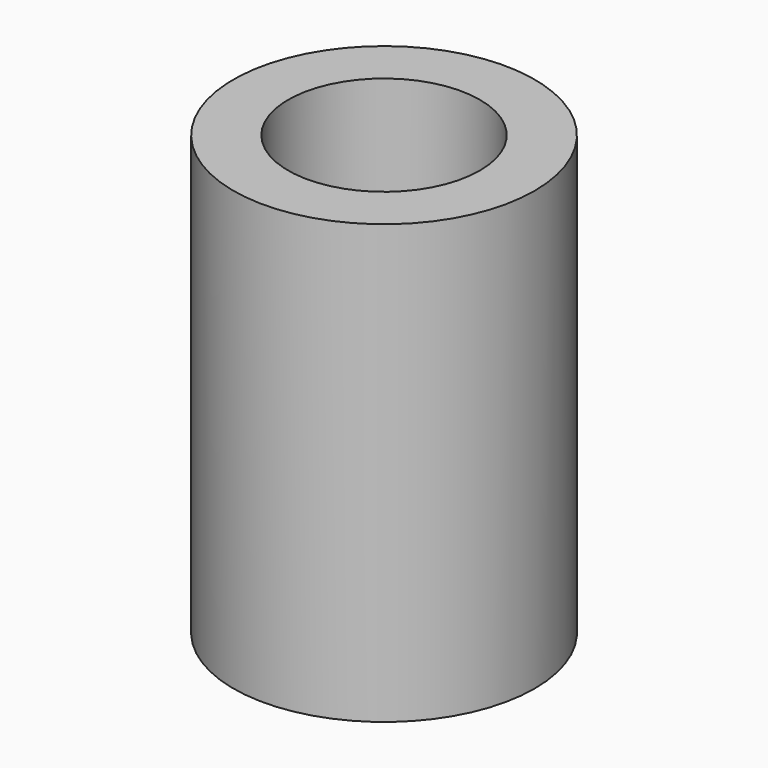
from build123d import *

# Parameters (mm, degrees)
SKETCH_R       = 1.75
PAD_DEPTH      = 8
THICKNESS001_T = 1
SKETCH013_W    = 12.495425
SKETCH013_H    = 4.952306
POCKET_DEPTH   = 6.751


with BuildPart() as part:
    # Sketch → Pad (new body)
    with BuildSketch(Plane.XY):
        Circle(SKETCH_R)
    extrude(amount=PAD_DEPTH)

    # Thickness001
    thickness001_openings = [part.faces().sort_by_distance(p)[0] for p in [
        (0, 0, 8),
    ]]
    offset(amount=THICKNESS001_T, openings=thickness001_openings, kind=Kind.INTERSECTION)

    # Sketch013 → Pocket (cut, through all)
    with BuildSketch(Plane.YZ.offset(4)):
        with Locations((0.810456, -2.476153)):
            Rectangle(SKETCH013_W, SKETCH013_H)
    extrude(amount=-POCKET_DEPTH, mode=Mode.SUBTRACT)


solid = part.part
